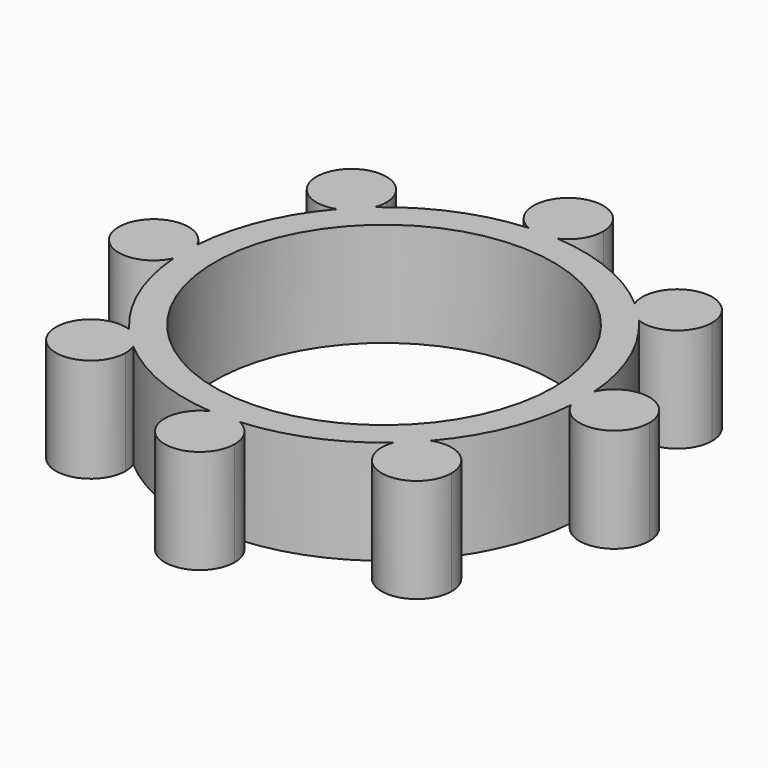
from build123d import *

# Parameters (mm, degrees)
F0_R     = 11.4
F1_DEPTH = 7


with BuildPart() as f1:
    # F0 (on Top) → F1 (new body)
    with BuildSketch(Plane.XY):
        with BuildLine():
            ThreePointArc((13.3641129032, -0.9800440346), (13.15, 0), (13.3641129032, 0.9800440346))
            ThreePointArc((13.3641129032, 0.9800440346), (12.3799857357, 5.1279579937), (10.1428506412, 8.7568590757))
            ThreePointArc((10.1428506412, 8.7568590757), (9.2984541726, 9.2984541726), (8.7568590757, 10.1428506412))
            ThreePointArc((8.7568590757, 10.1428506412), (5.1279579937, 12.3799857357), (0.9800440346, 13.3641129032))
            ThreePointArc((0.9800440346, 13.3641129032), (0, 13.15), (-0.9800440346, 13.3641129032))
            ThreePointArc((-0.9800440346, 13.3641129032), (-5.1279579937, 12.3799857357), (-8.7568590757, 10.1428506412))
            ThreePointArc((-8.7568590757, 10.1428506412), (-9.2984541726, 9.2984541726), (-10.1428506412, 8.7568590757))
            ThreePointArc((-10.1428506412, 8.7568590757), (-12.3799857357, 5.1279579937), (-13.3641129032, 0.9800440346))
            ThreePointArc((-13.3641129032, 0.9800440346), (-13.2041521525, 0.5015801644), (-13.15, 0))
            ThreePointArc((-13.15, 0), (-13.2041521525, -0.5015801644), (-13.3641129032, -0.9800440346))
            ThreePointArc((-13.3641129032, -0.9800440346), (-12.3799857357, -5.1279579937), (-10.1428506412, -8.7568590757))
            ThreePointArc((-10.1428506412, -8.7568590757), (-9.2984541726, -9.2984541726), (-8.7568590757, -10.1428506412))
            ThreePointArc((-8.7568590757, -10.1428506412), (-5.1279579937, -12.3799857357), (-0.9800440346, -13.3641129032))
            ThreePointArc((-0.9800440346, -13.3641129032), (0, -13.15), (0.9800440346, -13.3641129032))
            ThreePointArc((0.9800440346, -13.3641129032), (5.1279579937, -12.3799857357), (8.7568590757, -10.1428506412))
            ThreePointArc((8.7568590757, -10.1428506412), (9.2984541726, -9.2984541726), (10.1428506412, -8.7568590757))
            ThreePointArc((10.1428506412, -8.7568590757), (12.3799857357, -5.1279579937), (13.3641129032, -0.9800440346))
        make_face()
        Circle(F0_R, mode=Mode.SUBTRACT)
        with BuildLine():
            ThreePointArc((-10.1428506412, 8.7568590757), (-9.4752308679, 9.4752308679), (-8.7568590757, 10.1428506412))
            ThreePointArc((-8.7568590757, 10.1428506412), (-8.6471218535, 10.5449718217), (-8.6101551084, 10.9601551084))
            ThreePointArc((-8.6101551084, 10.9601551084), (-12.8892955255, 12.3021376906), (-10.1428506412, 8.7568590757))
        make_face()
        with BuildLine():
            ThreePointArc((-0.9800440346, 13.3641129032), (0, 13.4), (0.9800440346, 13.3641129032))
            ThreePointArc((0.9800440346, 13.3641129032), (1.9780803171, 14.231261154), (2.35, 15.5))
            ThreePointArc((2.35, 15.5), (-1.268738846, 17.4780803171), (-0.9800440346, 13.3641129032))
        make_face()
        with BuildLine():
            ThreePointArc((8.7568590757, 10.1428506412), (9.4752308679, 9.4752308679), (10.1428506412, 8.7568590757))
            ThreePointArc((10.1428506412, 8.7568590757), (12.3021376906, 9.0310146913), (13.3101551084, 10.9601551084))
            ThreePointArc((13.3101551084, 10.9601551084), (10.5449718217, 13.2731883633), (8.7568590757, 10.1428506412))
        make_face()
        with BuildLine():
            ThreePointArc((13.3641129032, 0.9800440346), (13.3910252203, 0.4903504343), (13.4, 0))
            ThreePointArc((13.4, 0), (13.3910252203, -0.4903504343), (13.3641129032, -0.9800440346))
            ThreePointArc((13.3641129032, -0.9800440346), (16.0015801644, -2.2958478475), (17.85, 0))
            ThreePointArc((17.85, 0), (16.0015801644, 2.2958478475), (13.3641129032, 0.9800440346))
        make_face()
        with BuildLine():
            ThreePointArc((13.3101551084, -10.9601551084), (12.3021376906, -9.0310146913), (10.1428506412, -8.7568590757))
            ThreePointArc((10.1428506412, -8.7568590757), (9.4752308679, -9.4752308679), (8.7568590757, -10.1428506412))
            ThreePointArc((8.7568590757, -10.1428506412), (10.5449718217, -13.2731883633), (13.3101551084, -10.9601551084))
        make_face()
        with BuildLine():
            ThreePointArc((2.35, -15.5), (1.9780803171, -14.231261154), (0.9800440346, -13.3641129032))
            ThreePointArc((0.9800440346, -13.3641129032), (0, -13.4), (-0.9800440346, -13.3641129032))
            ThreePointArc((-0.9800440346, -13.3641129032), (-1.268738846, -17.4780803171), (2.35, -15.5))
        make_face()
        with BuildLine():
            ThreePointArc((-8.6101551084, -10.9601551084), (-8.6471218535, -10.5449718217), (-8.7568590757, -10.1428506412))
            ThreePointArc((-8.7568590757, -10.1428506412), (-9.4752308679, -9.4752308679), (-10.1428506412, -8.7568590757))
            ThreePointArc((-10.1428506412, -8.7568590757), (-12.8892955255, -12.3021376906), (-8.6101551084, -10.9601551084))
        make_face()
        with BuildLine():
            ThreePointArc((-13.3641129032, -0.9800440346), (-13.4, 0), (-13.3641129032, 0.9800440346))
            ThreePointArc((-13.3641129032, 0.9800440346), (-17.85, 0), (-13.3641129032, -0.9800440346))
        make_face()
        with BuildLine():
            ThreePointArc((-13.15, 0), (-13.2041521525, 0.5015801644), (-13.3641129032, 0.9800440346))
            ThreePointArc((-13.3641129032, 0.9800440346), (-13.4, 0), (-13.3641129032, -0.9800440346))
            ThreePointArc((-13.3641129032, -0.9800440346), (-13.2041521525, -0.5015801644), (-13.15, 0))
        make_face()
        with BuildLine():
            ThreePointArc((-10.1428506412, -8.7568590757), (-9.4752308679, -9.4752308679), (-8.7568590757, -10.1428506412))
            ThreePointArc((-8.7568590757, -10.1428506412), (-9.2984541726, -9.2984541726), (-10.1428506412, -8.7568590757))
        make_face()
        with BuildLine():
            ThreePointArc((8.7568590757, -10.1428506412), (9.4752308679, -9.4752308679), (10.1428506412, -8.7568590757))
            ThreePointArc((10.1428506412, -8.7568590757), (9.2984541726, -9.2984541726), (8.7568590757, -10.1428506412))
        make_face()
        with BuildLine():
            ThreePointArc((13.3641129032, -0.9800440346), (13.3910252203, -0.4903504343), (13.4, 0))
            ThreePointArc((13.4, 0), (13.3910252203, 0.4903504343), (13.3641129032, 0.9800440346))
            ThreePointArc((13.3641129032, 0.9800440346), (13.15, 0), (13.3641129032, -0.9800440346))
        make_face()
        with BuildLine():
            ThreePointArc((-0.9800440346, -13.3641129032), (0, -13.4), (0.9800440346, -13.3641129032))
            ThreePointArc((0.9800440346, -13.3641129032), (0, -13.15), (-0.9800440346, -13.3641129032))
        make_face()
        with BuildLine():
            ThreePointArc((8.7568590757, 10.1428506412), (9.2984541726, 9.2984541726), (10.1428506412, 8.7568590757))
            ThreePointArc((10.1428506412, 8.7568590757), (9.4752308679, 9.4752308679), (8.7568590757, 10.1428506412))
        make_face()
        with BuildLine():
            ThreePointArc((-0.9800440346, 13.3641129032), (0, 13.15), (0.9800440346, 13.3641129032))
            ThreePointArc((0.9800440346, 13.3641129032), (0, 13.4), (-0.9800440346, 13.3641129032))
        make_face()
        with BuildLine():
            ThreePointArc((-10.1428506412, 8.7568590757), (-9.2984541726, 9.2984541726), (-8.7568590757, 10.1428506412))
            ThreePointArc((-8.7568590757, 10.1428506412), (-9.4752308679, 9.4752308679), (-10.1428506412, 8.7568590757))
        make_face()
    extrude(amount=F1_DEPTH)


solid = f1.part
